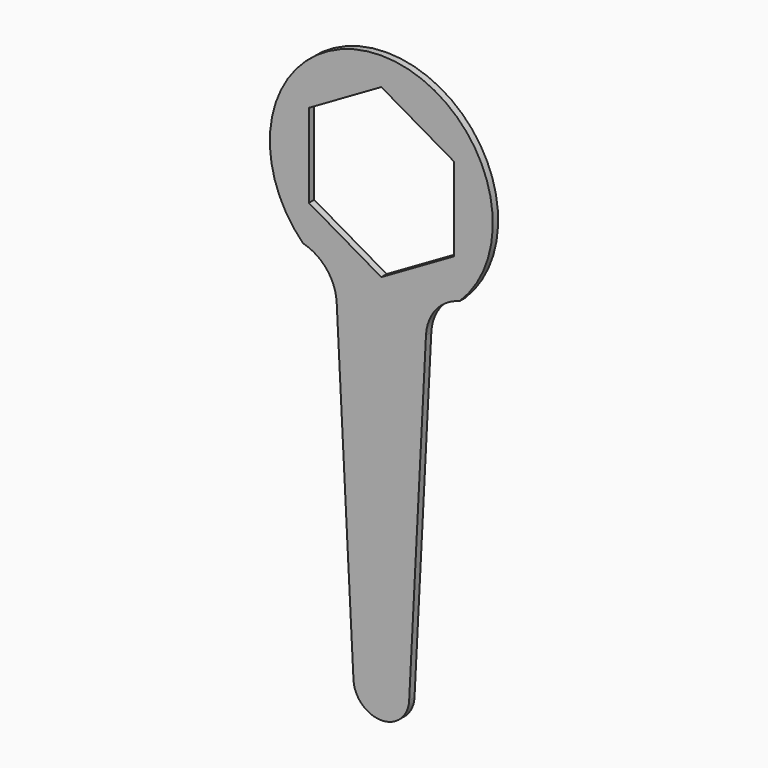
from build123d import *

# Parameters (mm, degrees)
F1_DEPTH = 3
F3_DEPTH = 25


with BuildPart() as f1:
    # F0 (on Front) → F1 (new body)
    with BuildSketch(Plane.XZ):
        with BuildLine():
            ThreePointArc((-35.099057, -35.609777), (-24.540831, -42.310868), (-20.026396, -53.972799))
            Line((-20.026396, -53.972799), (-12.483503, -200.642001))
            ThreePointArc((-12.483503, -200.642001), (0, -212.5), (12.483503, -200.642001))
            Line((12.483503, -200.642001), (20.026396, -53.972799))
            ThreePointArc((20.026396, -53.972799), (24.540831, -42.310868), (35.099057, -35.609777))
            ThreePointArc((35.099057, -35.609777), (0, 50), (-35.099057, -35.609777))
        make_face()
    extrude(amount=F1_DEPTH)

    # F2 (on face) → F3 (cut)
    with BuildSketch(Plane.XZ.offset(3)):
        Polygon((-32.5, 18.763884), (-32.5, -18.763884), (0, -37.527767), (32.5, -18.763884), (32.5, 18.763884), (0, 37.527767), align=None)
    extrude(amount=-F3_DEPTH, mode=Mode.SUBTRACT)


solid = f1.part
